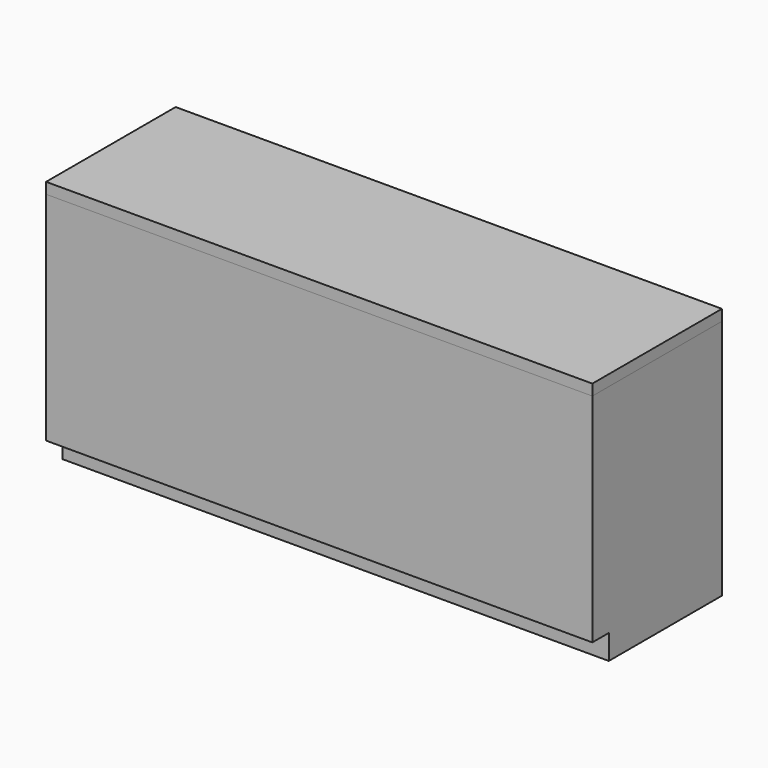
from build123d import *

# Parameters (mm, degrees)
F0_W     = 1990
F0_H     = 590
F1_DEPTH = 880
F2_W     = 75
F2_H     = 90
F3_DEPTH = 1990.001
F4_W     = 590
F4_H     = 40
F5_DEPTH = 1990


with BuildPart() as f1:
    # F0 (on Top) → F1 (new body)
    with BuildSketch(Plane.XY):
        with Locations((995, 295)):
            Rectangle(F0_W, F0_H)
    extrude(amount=F1_DEPTH)

    # F2 (on Right) → F3 (cut, through all)
    with BuildSketch(Plane.YZ):
        with Locations((37.5, 45)):
            Rectangle(F2_W, F2_H)
    extrude(amount=F3_DEPTH, mode=Mode.SUBTRACT)


with BuildPart() as f5:
    # F4 (on Right) → F5 (new body, through all)
    with BuildSketch(Plane.YZ):
        with Locations((295, 900)):
            Rectangle(F4_W, F4_H)
    extrude(amount=F5_DEPTH)


solid = Compound([f1.part, f5.part])
